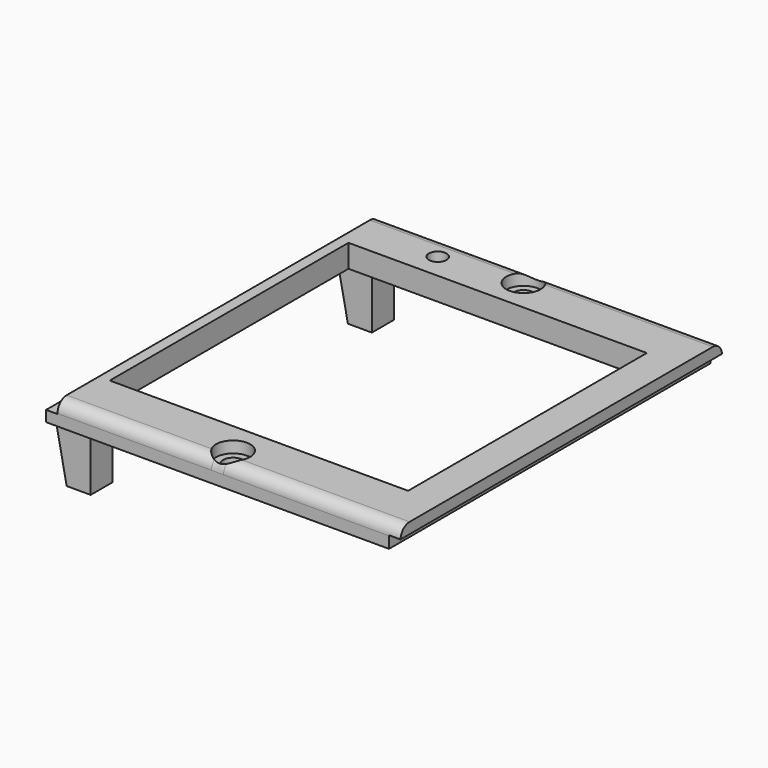
from build123d import *

# Parameters (mm, degrees)
SKETCH077_W          = 62
SKETCH077_H          = 70.3
SKETCH077_R          = 1.75
SKETCH077_R_2        = 1.55
SKETCH077_W_2        = 52.2
SKETCH077_H_2        = 52.2
PAD021_DEPTH         = 4
FILLET009_R          = 2
SKETCH078_W          = 2
SKETCH078_H          = 2.1
POCKET050_DEPTH      = 35.151
POCKET050_DEPTH_BACK = 35.151
SKETCH079_R          = 3
POCKET028_DEPTH      = 2.001
SKETCH081_W          = 4.202
SKETCH081_H          = 4.8
PAD023_DEPTH         = 10
CHAMFER003_SIZE2     = 9.99
CHAMFER003_SIZE      = 1.99


with BuildPart() as part:
    # Sketch077 → Pad021 (new body)
    with BuildSketch(Plane.XY):
        with Locations((1, 0)):
            Rectangle(SKETCH077_W, SKETCH077_H)
        with Locations((0, 31.75)):
            Circle(SKETCH077_R, mode=Mode.SUBTRACT)
        with Locations((0, -31.75)):
            Circle(SKETCH077_R, mode=Mode.SUBTRACT)
        with Locations((-14, 30.5)):
            Circle(SKETCH077_R_2, mode=Mode.SUBTRACT)
        Rectangle(SKETCH077_W_2, SKETCH077_H_2, mode=Mode.SUBTRACT)
    extrude(amount=PAD021_DEPTH)

    # Fillet009
    fillet009_edges = [part.edges().sort_by_distance(p)[0] for p in [
        (1, 35.15, 4),
        (1, -35.15, 4),
    ]]
    fillet(fillet009_edges, radius=FILLET009_R)

    # Sketch078 → Pocket050 (cut, two sides)
    with BuildSketch(Plane.XZ) as pocket050_sk:
        with Locations((-29, 2.95)):
            Rectangle(SKETCH078_W, SKETCH078_H)
        with Locations((31, 1.05)):
            Rectangle(SKETCH078_W, SKETCH078_H)
    extrude(amount=-POCKET050_DEPTH, mode=Mode.SUBTRACT)
    extrude(pocket050_sk.sketch, amount=POCKET050_DEPTH_BACK, mode=Mode.SUBTRACT)

    # Sketch079 → Pocket028 (cut, through all)
    with BuildSketch(Plane.XY.offset(2)):
        with Locations((0, -31.75)):
            Circle(SKETCH079_R)
        with Locations((0, 31.75)):
            Circle(SKETCH079_R)
    extrude(amount=POCKET028_DEPTH, mode=Mode.SUBTRACT)

    # Sketch081 → Pad023 (join)
    with BuildSketch(Plane.XY):
        with Locations((-25.899, 30.75)):
            Rectangle(SKETCH081_W, SKETCH081_H)
        with Locations((-25.899, -30.75)):
            Rectangle(SKETCH081_W, SKETCH081_H)
    extrude(amount=-PAD023_DEPTH)

    # Chamfer003
    chamfer003_edges = [part.edges().sort_by_distance(p)[0] for p in [
        (-28, 30.75, 0),
        (-28, -30.75, 0),
    ]]
    chamfer003_side = part.faces().sort_by_distance((-29.075766, 0, 0))[0]
    chamfer(chamfer003_edges, length=CHAMFER003_SIZE, length2=CHAMFER003_SIZE2, reference=chamfer003_side)


with BuildPart() as part_1:
    # Body058 placement: moved
    add(part.part.moved(Location((0, 0, 46))))


solid = part_1.part
